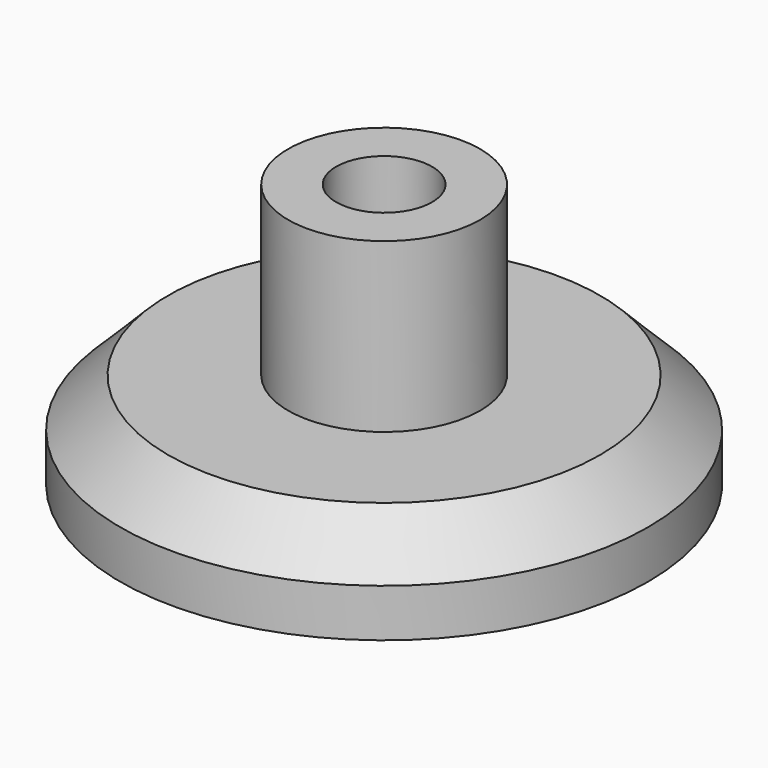
from build123d import *

# Parameters (mm, degrees)
F0_R     = 11
F1_DEPTH = 4
F2_SIZE  = 2
F3_R     = 4
F4_DEPTH = 7
F6_D     = 4
F6_DEPTH = 4
F6_TIP   = 1.2017212381


with BuildPart() as f1:
    # F0 (on Top) → F1 (new body)
    with BuildSketch(Plane.XY):
        Circle(F0_R)
    extrude(amount=F1_DEPTH)

    # F2
    f2_edges = [f1.edges().sort_by_distance(p)[0] for p in [
        (-11, 0, 4),
    ]]
    chamfer(f2_edges, length=F2_SIZE)

    # F3 (on face) → F4 (join)
    with BuildSketch(Plane.XY.offset(4)):
        Circle(F3_R)
    extrude(amount=F4_DEPTH)

    # F6
    with Locations(Plane.XY.offset(11)):
        with Locations((0, 0)):
            Hole(F6_D / 2, depth=F6_DEPTH)
            with Locations((0, 0, -(F6_DEPTH + F6_TIP / 2))):  # 118° drill point
                Cone(0, F6_D / 2, F6_TIP, mode=Mode.SUBTRACT)


solid = f1.part
